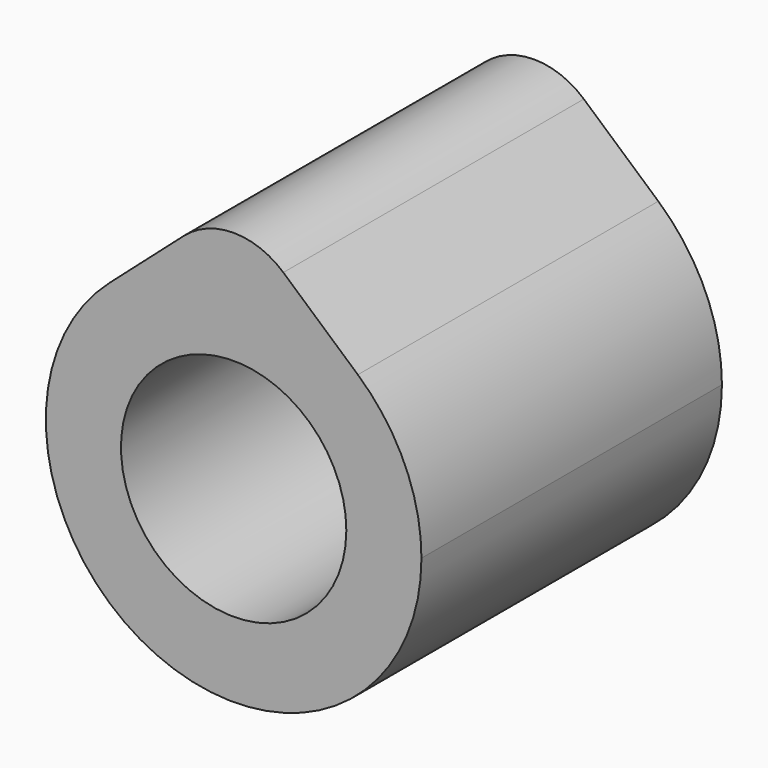
from build123d import *

# Parameters (mm, degrees)
F1_DEPTH = 5


with BuildPart() as f1:
    # F0 (on Front) → F1 (new body)
    with BuildSketch(Plane.XZ):
        with BuildLine():
            ThreePointArc((-1.6535945694, 1.875), (-1.0285945694, -2.2785945694), (2.5, 0))
            ThreePointArc((2.5, 0), (2.2785945694, 1.0285945694), (1.6535945694, 1.875))
            ThreePointArc((1.6535945694, 1.875), (1.3200078312, 2.1231060562), (0.9499177596, 2.3125))
            ThreePointArc((0.9499177596, 2.3125), (0.9874000607, 2.1582438631), (1, 2))
            ThreePointArc((1, 2), (0.92902755, 1.6299894443), (0.7261843774, 1.3125))
            ThreePointArc((0.7261843774, 1.3125), (1.2921448383, 0.7618147524), (1.5, 0))
            ThreePointArc((1.5, 0), (-0.7618147524, -1.2921448383), (-0.7261843774, 1.3125))
            ThreePointArc((-0.7261843774, 1.3125), (-0.975873759, 1.7816644633), (-0.9499177596, 2.3125))
            ThreePointArc((-0.9499177596, 2.3125), (-1.3200078312, 2.1231060562), (-1.6535945694, 1.875))
        make_face()
        with BuildLine():
            ThreePointArc((1, 2), (0.9874000607, 2.1582438631), (0.9499177596, 2.3125))
            ThreePointArc((0.9499177596, 2.3125), (0, 2.5), (-0.9499177596, 2.3125))
            ThreePointArc((-0.9499177596, 2.3125), (-0.975873759, 1.7816644633), (-0.7261843774, 1.3125))
            ThreePointArc((-0.7261843774, 1.3125), (0, 1.5), (0.7261843774, 1.3125))
            ThreePointArc((0.7261843774, 1.3125), (0.92902755, 1.6299894443), (1, 2))
        make_face()
        with BuildLine():
            ThreePointArc((-0.9499177596, 2.3125), (0, 2.5), (0.9499177596, 2.3125))
            ThreePointArc((0.9499177596, 2.3125), (0.8348462551, 2.5504831789), (0.6614378278, 2.75))
            ThreePointArc((0.6614378278, 2.75), (0, 3), (-0.6614378278, 2.75))
            ThreePointArc((-0.6614378278, 2.75), (-0.8348462551, 2.5504831789), (-0.9499177596, 2.3125))
        make_face()
        with BuildLine():
            ThreePointArc((0.9499177596, 2.3125), (1.3200078312, 2.1231060562), (1.6535945694, 1.875))
            Line((1.6535945694, 1.875), (0.6614378278, 2.75))
            ThreePointArc((0.6614378278, 2.75), (0.8348462551, 2.5504831789), (0.9499177596, 2.3125))
        make_face()
        with BuildLine():
            Line((-0.6614378278, 2.75), (-1.6535945694, 1.875))
            ThreePointArc((-1.6535945694, 1.875), (-1.3200078312, 2.1231060562), (-0.9499177596, 2.3125))
            ThreePointArc((-0.9499177596, 2.3125), (-0.8348462551, 2.5504831789), (-0.6614378278, 2.75))
        make_face()
    extrude(amount=F1_DEPTH)


solid = f1.part
